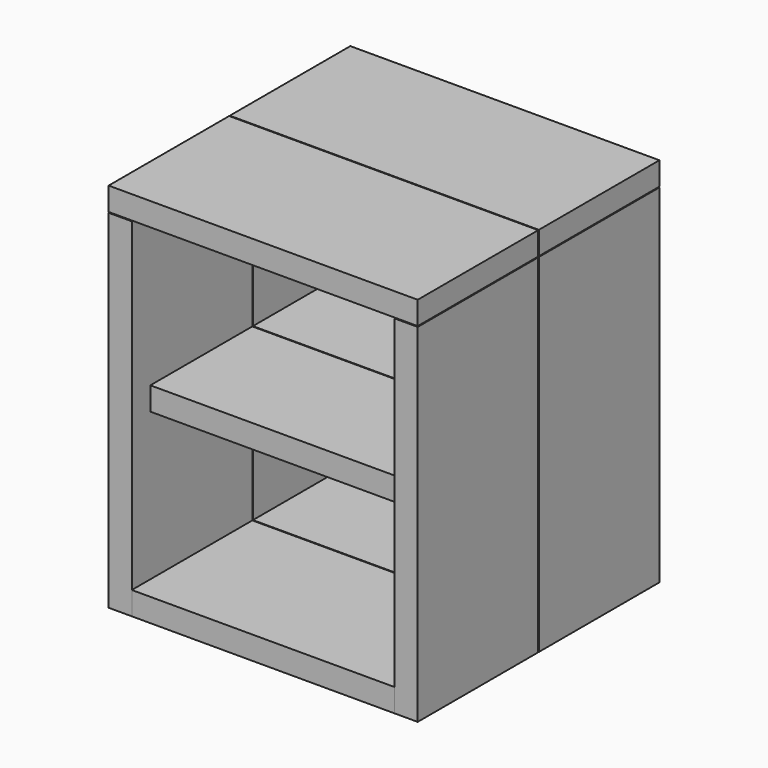
from build123d import *

# Parameters (mm, degrees)
F0_W      = 195
F0_H      = 30
F1_DEPTH  = 200
F2_W      = 195
F2_H      = 450
F3_DEPTH  = 30
F4_W      = 195
F4_H      = 450
F5_DEPTH  = 30
F6_W      = 195
F6_H      = 30
F7_DEPTH  = 170
F8_W      = 168.5
F8_H      = 419
F9_DEPTH  = 30
F10_W     = 165
F10_H     = 30
F11_DEPTH = 340


with BuildPart() as f1:
    # F0 (on Right) → F1 (new body, symmetric)
    with BuildSketch(Plane.YZ):
        with Locations((-121.665683, 104.827926)):
            Rectangle(F0_W, F0_H)
        with Locations((74.334317, 104.827926)):
            Rectangle(F0_W, F0_H)
    extrude(amount=F1_DEPTH, both=True)


with BuildPart() as f3:
    # F2 (on face) → F3 (new body)
    with BuildSketch(Plane.YZ.offset(200)):
        with Locations((-121.665683, -136.172074)):
            Rectangle(F2_W, F2_H)
        with Locations((74.334317, -136.172074)):
            Rectangle(F2_W, F2_H)
    extrude(amount=-F3_DEPTH)


with BuildPart() as f5:
    # F4 (on face) → F5 (new body)
    with BuildSketch(Plane(origin=(-200, 0, 0), x_dir=(0, -1, 0), z_dir=(-1, 0, 0))):
        with Locations((-74.334317, -136.172074)):
            Rectangle(F4_W, F4_H)
        with Locations((121.665683, -136.172074)):
            Rectangle(F4_W, F4_H)
    extrude(amount=-F5_DEPTH)


with BuildPart() as f7:
    # F6 (on Right) → F7 (new body, symmetric)
    with BuildSketch(Plane.YZ):
        with Locations((74.334317, -346.172074)):
            Rectangle(F6_W, F6_H)
        with Locations((-121.665683, -346.172074)):
            Rectangle(F6_W, F6_H)
    extrude(amount=F7_DEPTH, both=True)


with BuildPart() as f9:
    # F8 (on face) → F9 (new body)
    with BuildSketch(Plane(origin=(0, 171.834317, 0), x_dir=(-1, 0, 0), z_dir=(0, 1, 0))):
        with Locations((-84.75, -120.672074)):
            Rectangle(F8_W, F8_H)
        with Locations((84.75, -120.672074)):
            Rectangle(F8_W, F8_H)
    extrude(amount=-F9_DEPTH)


with BuildPart() as f11:
    # F10 (on face) → F11 (new body)
    with BuildSketch(Plane(origin=(170, 0, 0), x_dir=(0, -1, 0), z_dir=(-1, 0, 0))):
        with Locations((106.665683, -125.172074)):
            Rectangle(F10_W, F10_H)
        with Locations((-59.334317, -125.172074)):
            Rectangle(F10_W, F10_H)
    extrude(amount=F11_DEPTH)


solid = Compound([f1.part, f3.part, f5.part, f7.part, f9.part, f11.part])
